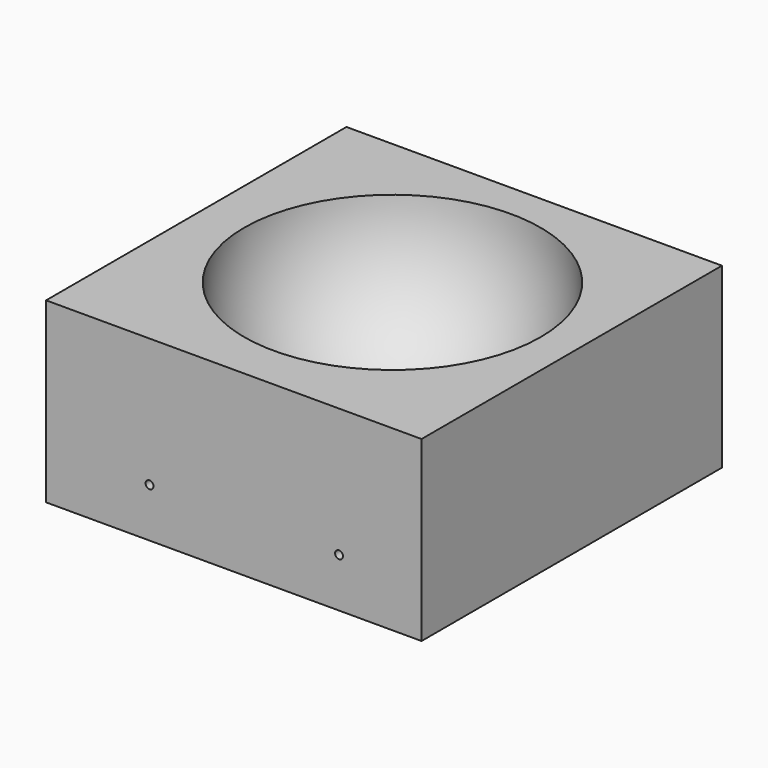
from build123d import *

# Parameters (mm, degrees)
F0_W           = 190
F0_H           = 190
F1_DEPTH       = 90
F5_D           = 4
F5_CBORE_D     = 6.5
F5_CBORE_DEPTH = 50


with BuildPart() as f1:
    # F0 (on Top) → F1 (new body)
    with BuildSketch(Plane.XY):
        with Locations((-2.279991, -2.496977)):
            Rectangle(F0_W, F0_H)
    extrude(amount=F1_DEPTH)

    # F2 (on face) → F3 (revolve, cut)
    with BuildSketch(Plane.XY.offset(90)):
        with BuildLine():
            Line((75, 0), (-75, 0))
            ThreePointArc((-75, 0), (0, -75), (75, 0))
        make_face()
    revolve(axis=Axis((0, 0, 90), (1, 0, 0)), mode=Mode.SUBTRACT)

    # F5 (through all)
    with Locations(Plane(origin=(0, 92.503023, 0), x_dir=(-1, 0, 0), z_dir=(0, 1, 0))):
        with Locations((44.935185, 24.847355), (-50.961897, 24.847355)):
            CounterBoreHole(F5_D / 2, F5_CBORE_D / 2, F5_CBORE_DEPTH)


solid = f1.part
